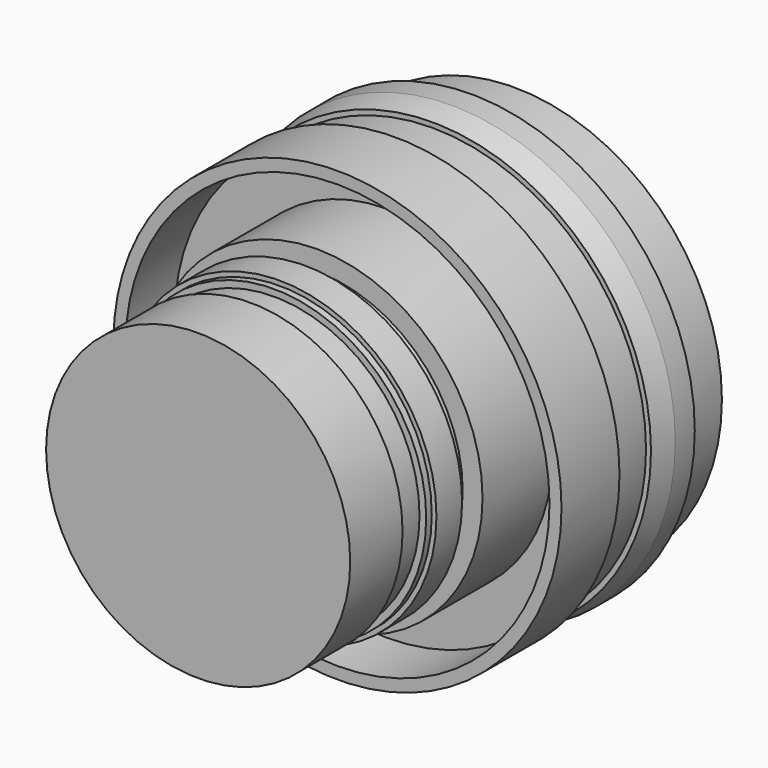
from build123d import *

# Parameters (mm, degrees)
F0_R      = 38.84
F0_R_2    = 27.5
F1_DEPTH  = 10.14
F2_R      = 41.875
F3_DEPTH  = 4.57
F4_R      = 41.875
F6_R      = 40.925
F8_R      = 40
F9_DEPTH  = 8.65
F10_R     = 41.95
F11_DEPTH = 13.57
F12_R     = 39.7
F13_DEPTH = 11.49
F14_R     = 31
F15_DEPTH = 16.29
F16_R     = 27.295707
F17_DEPTH = 2.75
F18_R     = 29.375
F19_DEPTH = 6
F20_R     = 28.5
F21_DEPTH = 1.3
F22_R     = 27.25
F23_DEPTH = 5.5
F24_R     = 28.475
F25_DEPTH = 12.25


with BuildPart() as f1:
    # F0 (on Front) → F1 (new body)
    with BuildSketch(Plane.XZ):
        Circle(F0_R)
        Circle(F0_R_2, mode=Mode.SUBTRACT)
    extrude(amount=F1_DEPTH)

    # F2 (on face) → F3 (join)
    with BuildSketch(Plane.XZ.offset(10.14)):
        Circle(F2_R)
    extrude(amount=F3_DEPTH)

    # F4 (on face) → F7 section 0
    with BuildSketch(Plane.XZ.offset(14.71)):
        Circle(F4_R)
    # F6 (on offset) → F7 section 1
    with BuildSketch(Plane.XZ.offset(19.21)):
        Circle(F6_R)
    loft()

    # F8 (on face) → F9 (join)
    with BuildSketch(Plane.XZ.offset(19.21)):
        Circle(F8_R)
    extrude(amount=F9_DEPTH)

    # F10 (on face) → F11 (join)
    with BuildSketch(Plane.XZ.offset(27.86)):
        Circle(F10_R)
    extrude(amount=F11_DEPTH)

    # F12 (on face) → F13 (cut)
    with BuildSketch(Plane.XZ.offset(41.43)):
        Circle(F12_R)
    extrude(amount=-F13_DEPTH, mode=Mode.SUBTRACT)

    # F14 (on face) → F15 (join)
    with BuildSketch(Plane.XZ.offset(29.94)):
        Circle(F14_R)
    extrude(amount=F15_DEPTH)

    # F16 (on face) → F17 (join)
    with BuildSketch(Plane.XZ.offset(46.23)):
        Circle(F16_R)
    extrude(amount=F17_DEPTH)

    # F18 (on face) → F19 (join)
    with BuildSketch(Plane.XZ.offset(48.98)):
        Circle(F18_R)
    extrude(amount=F19_DEPTH)

    # F20 (on face) → F21 (join)
    with BuildSketch(Plane.XZ.offset(54.98)):
        Circle(F20_R)
    extrude(amount=F21_DEPTH)

    # F22 (on face) → F23 (join)
    with BuildSketch(Plane.XZ.offset(56.28)):
        Circle(F22_R)
    extrude(amount=F23_DEPTH)

    # F24 (on face) → F25 (join)
    with BuildSketch(Plane.XZ.offset(61.78)):
        Circle(F24_R)
    extrude(amount=F25_DEPTH)


solid = f1.part
